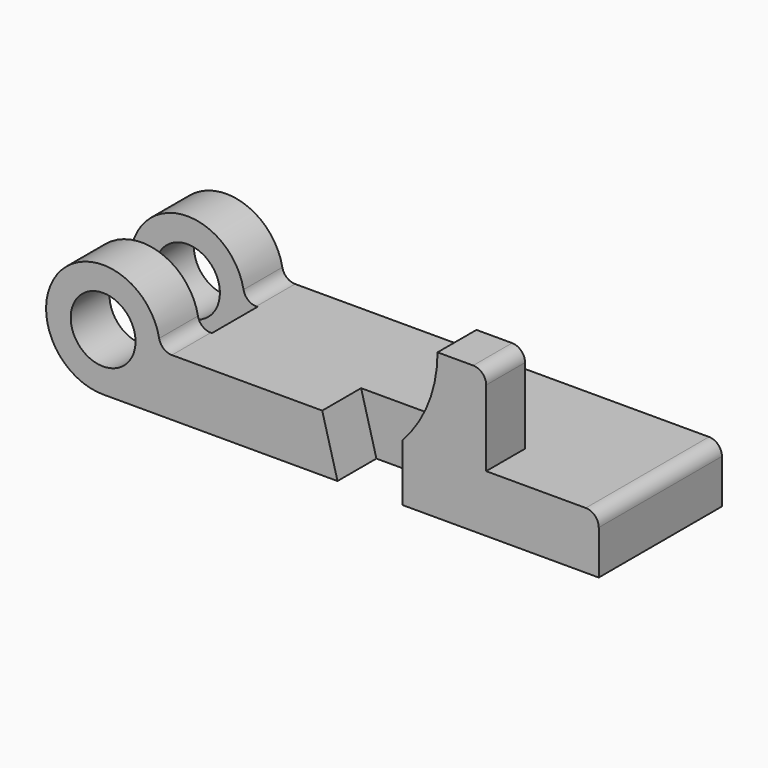
from build123d import *

# Parameters (mm, degrees)
F0_R     = 12.7
F1_DEPTH = 30.1625
F2_W     = 5.08
F2_H     = 22.3266
F2_W_2   = 65.9883690595
F3_DEPTH = 254
F5_DEPTH = 19.05
F7_DEPTH = 19.05
F8_R     = 5.08


with BuildPart() as f1:
    # F0 (on Front) → F1 (new body, symmetric)
    with BuildSketch(Plane.XZ):
        with BuildLine():
            Line((108.2802, 0), (-63.5762, 0))
            ThreePointArc((-63.5762, 0), (-101.7334507731, 15.8052507731), (-85.9282, -22.352))
            Line((-85.9282, -22.352), (108.2802, -22.352))
            Line((108.2802, -22.352), (108.2802, 0))
        make_face()
        with Locations((-85.9282, 0)):
            Circle(F0_R, mode=Mode.SUBTRACT)
    extrude(amount=F1_DEPTH, both=True)

    # F2 (on face) → F3 (cut, symmetric)
    with BuildSketch(Plane.XY):
        with Locations((-61.0362, 0)):
            Rectangle(F2_W, F2_H)
        with Locations((-96.5703845298, 0)):
            Rectangle(F2_W_2, F2_H)
    extrude(amount=F3_DEPTH, both=True, mode=Mode.SUBTRACT)

    # F4 (on face) → F5 (cut)
    with BuildSketch(Plane.XZ.offset(30.1625)):
        Polygon((31.3182, 0), (-0.0762, 0), (5.9182, -22.352), (31.3182, -22.352), align=None)
    extrude(amount=-F5_DEPTH, mode=Mode.SUBTRACT)

    # F6 (on face) → F7 (join)
    with BuildSketch(Plane.XZ.offset(30.1625)):
        with BuildLine():
            ThreePointArc((64.1604, 29.718), (62.6725024484, 33.3101024484), (59.0804, 34.798))
            Line((59.0804, 34.798), (45.1104, 34.798))
            ThreePointArc((45.1104, 34.798), (41.5362153616, 16.0823576341), (31.3182, 0))
            Line((31.3182, 0), (64.1604, 0))
            Line((64.1604, 0), (64.1604, 29.718))
        make_face()
    extrude(amount=-F7_DEPTH)

    # F8
    f8_edges = [f1.edges().sort_by_distance(p)[0] for p in [
        (-63.5762, -20.6629, 0),
        (-63.5762, 20.6629, 0),
        (108.2802, 0, 0),
    ]]
    fillet(f8_edges, radius=F8_R)


solid = f1.part
